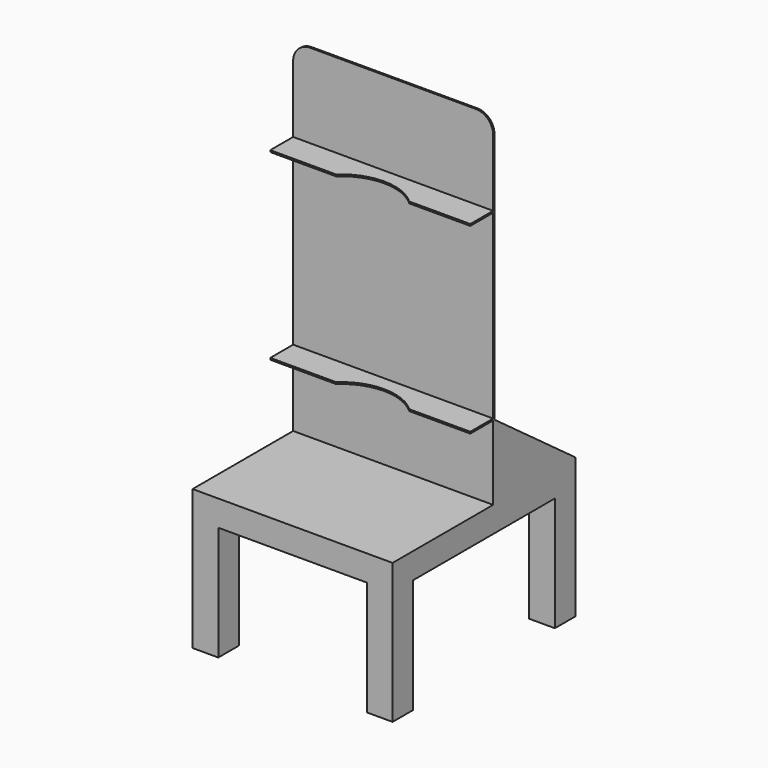
from build123d import *

# Parameters (mm, degrees)
F0_W      = 350
F0_H      = 400
F1_DEPTH  = 45
F2_W      = 45
F2_H      = 45
F3_DEPTH  = 200
F4_W      = 350
F4_H      = 3
F5_DEPTH  = 600
F6_R      = 30
F8_DEPTH  = 3
F10_DEPTH = 3
F11_W     = 350
F11_H     = 3
F12_DEPTH = 50
F14_DEPTH = 350


with BuildPart() as f1:
    # F0 (on Top) → F1 (new body)
    with BuildSketch(Plane.XY):
        Rectangle(F0_W, F0_H)
    extrude(amount=F1_DEPTH)

    # F2 (on face) → F3 (join)
    with BuildSketch(Plane(origin=(0, 0, 0), x_dir=(1, 0, 0), z_dir=(0, 0, -1))):
        with Locations((-152.5, 177.5)):
            Rectangle(F2_W, F2_H)
        with Locations((152.5, 177.5)):
            Rectangle(F2_W, F2_H)
        with Locations((-152.5, -177.5)):
            Rectangle(F2_W, F2_H)
        with Locations((152.5, -177.5)):
            Rectangle(F2_W, F2_H)
    extrude(amount=F3_DEPTH)

    # F4 (on face) → F5 (join)
    with BuildSketch(Plane.XY.offset(45)):
        with Locations((0, 21.5)):
            Rectangle(F4_W, F4_H)
    extrude(amount=F5_DEPTH)

    # F6
    f6_edges = [f1.edges().sort_by_distance(p)[0] for p in [
        (-175, 21.5, 645),
        (175, 21.5, 645),
    ]]
    fillet(f6_edges, radius=F6_R)

    # F7 (on face) → F8 (join)
    with BuildSketch(Plane.YZ.offset(175)):
        Polygon((23, 45), (200, 45), (23, 175), align=None)
    extrude(amount=-F8_DEPTH)

    # F9 (on face) → F10 (join)
    with BuildSketch(Plane(origin=(-175, 0, 0), x_dir=(0, -1, 0), z_dir=(-1, 0, 0))):
        Polygon((-23, 175), (-200, 45), (-23, 45), align=None)
    extrude(amount=-F10_DEPTH)

    # F11 (on face) → F12 (join)
    with BuildSketch(Plane.XZ.offset(-20)):
        with Locations((0, 176.5)):
            Rectangle(F11_W, F11_H)
        with Locations((0, 496.5)):
            Rectangle(F11_W, F11_H)
    extrude(amount=F12_DEPTH)

    # F13 (on face) → F14 (cut)
    with BuildSketch(Plane.XY.offset(498)):
        with BuildLine():
            ThreePointArc((-60.1428805791, -30), (-34.1496519515, -186.9669059898), (99.0832823142, -100))
            ThreePointArc((99.0832823142, -100), (91.050188304, -61.7670657343), (68.3094452076, -30))
            Line((68.3094452076, -30), (-60.1428805791, -30))
        make_face()
        with BuildLine():
            Line((-60.1428805791, -30), (68.3094452076, -30))
            ThreePointArc((68.3094452076, -30), (4.0832823142, -5), (-60.1428805791, -30))
        make_face()
    extrude(amount=-F14_DEPTH, mode=Mode.SUBTRACT)


solid = f1.part
